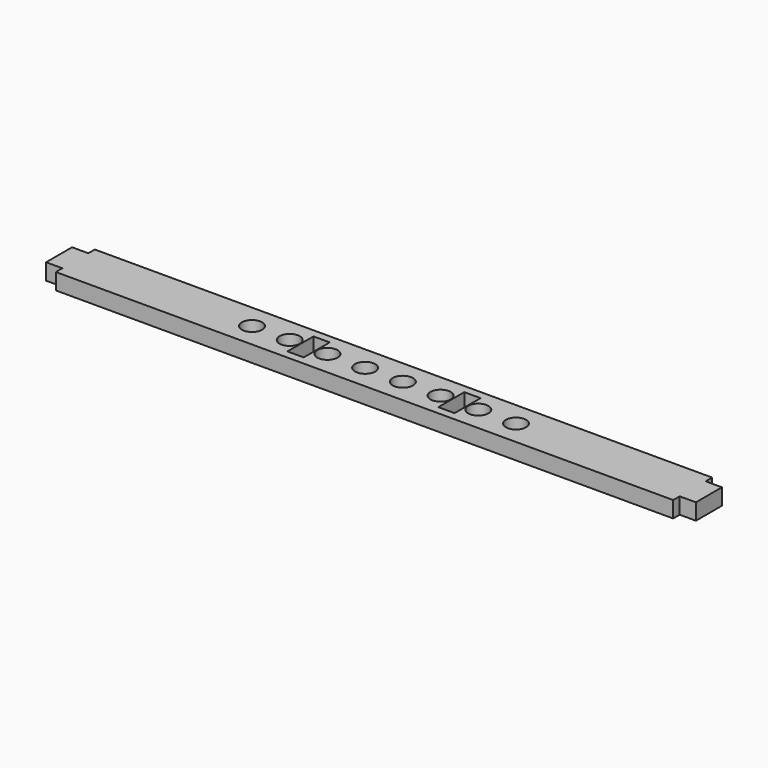
from build123d import *

# Parameters (mm, degrees)
PAD006_DEPTH           = 4
SKETCH015_R            = 2.5
POCKET006_DEPTH        = 4
LINEARPATTERN012_COUNT = 8
LINEARPATTERN012_PITCH = 9.285714
SKETCH016_W            = 4
SKETCH016_H            = 8
POCKET007_DEPTH        = 4


with BuildPart() as part:
    # Sketch013 → Pad006 (new body)
    with BuildSketch(Plane.XY):
        Polygon((-76, -6), (-76, -4), (-80, -4), (-80, 4), (-76, 4), (-76, 6), (76, 6), (76, 4), (80, 4), (80, -4), (76, -4), (76, -6), align=None)
    extrude(amount=-PAD006_DEPTH)

    # Sketch015 (on Face13 of Pad006) → Pocket006 (cut)
    with BuildSketch(Plane.XY):
        with Locations((-32.5, 0)):
            Circle(SKETCH015_R)
    pocket006 = extrude(amount=-POCKET006_DEPTH, mode=Mode.SUBTRACT)

    # LinearPattern012: Pocket006 ×8
    with Locations(*[(i * LINEARPATTERN012_PITCH, 0, 0) for i in range(1, LINEARPATTERN012_COUNT)]):
        add(pocket006, mode=Mode.SUBTRACT)

    # Sketch016 (on Face4 of MultiTransform005) → Pocket007 (cut)
    with BuildSketch(Plane.XY):
        with Locations((18.571429, 0)):
            Rectangle(SKETCH016_W, SKETCH016_H)
        with Locations((-18.571429, 0)):
            Rectangle(SKETCH016_W, SKETCH016_H)
    extrude(amount=-POCKET007_DEPTH, mode=Mode.SUBTRACT)


with BuildPart() as part_1:
    # Body007 placement: moved
    add(part.part.moved(Location((0, 0, -10))))


solid = part_1.part
